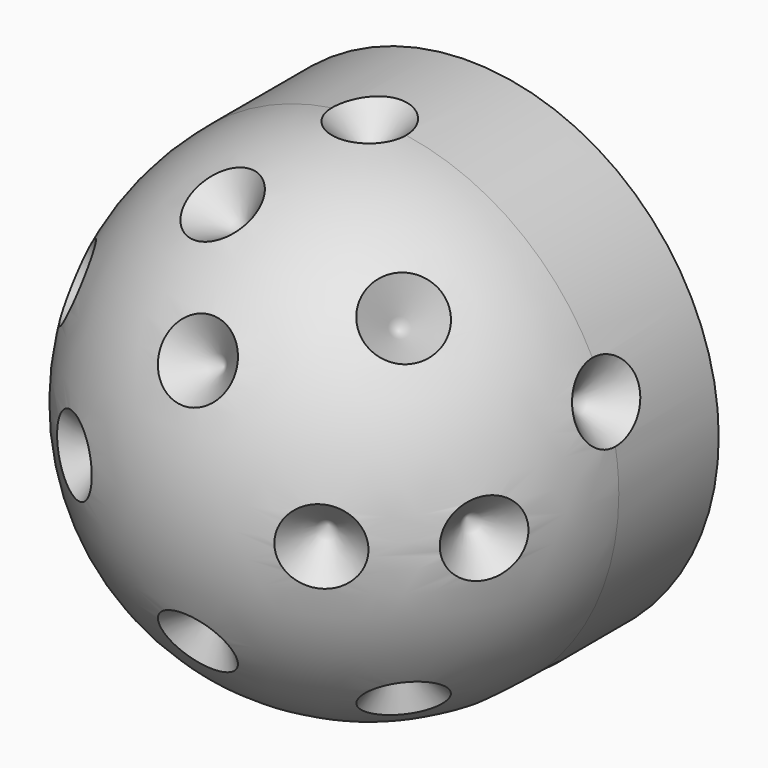
from build123d import *

# Parameters (mm, degrees)
F0_R      = 50
F1_DEPTH  = 25
F3_ANGLE  = 180
F6_COUNT  = 5
F10_COUNT = 7
F14_COUNT = 4


with BuildPart() as f1:
    # F0 (on Front) → F1 (new body)
    with BuildSketch(Plane.XZ):
        Circle(F0_R)
    extrude(amount=-F1_DEPTH)

    # F2 (on face) → F3 (revolve)
    with BuildSketch(Plane.XZ):
        with BuildLine():
            Line((0, -50), (0, 50))
            ThreePointArc((0, 50), (-50, 0), (0, -50))
        make_face()
    revolve(axis=Axis((0, 0, 0), (0, 0, 1)), revolution_arc=F3_ANGLE)


with BuildPart() as f5:
    # F4 (on Right) → F5 (revolve)
    with BuildSketch(Plane.YZ):
        Polygon((0, 42), (0, 52), (-10, 52), align=None)
    revolve(axis=Axis((0, 0, 47), (0, 0, -1)))


with BuildPart() as f6_1:
    # F6: instance of F5
    add(f5.part.rotate(Axis((0, 25, 0), (0, -1, 0)), 1 * 360 / F6_COUNT))


with BuildPart() as f6_2:
    # F6: instance of F5
    add(f5.part.rotate(Axis((0, 25, 0), (0, -1, 0)), 2 * 360 / F6_COUNT))


with BuildPart() as f6_3:
    # F6: instance of F5
    add(f5.part.rotate(Axis((0, 25, 0), (0, -1, 0)), 3 * 360 / F6_COUNT))


with BuildPart() as f6_4:
    # F6: instance of F5
    add(f5.part.rotate(Axis((0, 25, 0), (0, -1, 0)), 4 * 360 / F6_COUNT))


with BuildPart() as f1_1:
    add(f1.part)

    # F7: cut F5, F6_2, F6_3, F6_1, F6_4
    add(f5.part, mode=Mode.SUBTRACT)
    add(f6_2.part, mode=Mode.SUBTRACT)
    add(f6_3.part, mode=Mode.SUBTRACT)
    add(f6_1.part, mode=Mode.SUBTRACT)
    add(f6_4.part, mode=Mode.SUBTRACT)


with BuildPart() as f9:
    # F8 (on Top) → F9 (revolve)
    with BuildSketch(Plane.XY):
        Polygon((40.0333209968, -34.6602540378), (45.0333209968, -26), (36.3730669589, -21), align=None)
    revolve(axis=Axis((40.7031939779, -23.5, 0), (0.8660254038, -0.5, 0)))


with BuildPart() as f10_1:
    # F10: instance of F9
    add(f9.part.rotate(Axis((0, 25, 0), (0, -1, 0)), 1 * 360 / F10_COUNT))


with BuildPart() as f10_2:
    # F10: instance of F9
    add(f9.part.rotate(Axis((0, 25, 0), (0, -1, 0)), 2 * 360 / F10_COUNT))


with BuildPart() as f10_3:
    # F10: instance of F9
    add(f9.part.rotate(Axis((0, 25, 0), (0, -1, 0)), 3 * 360 / F10_COUNT))


with BuildPart() as f10_4:
    # F10: instance of F9
    add(f9.part.rotate(Axis((0, 25, 0), (0, -1, 0)), 4 * 360 / F10_COUNT))


with BuildPart() as f10_5:
    # F10: instance of F9
    add(f9.part.rotate(Axis((0, 25, 0), (0, -1, 0)), 5 * 360 / F10_COUNT))


with BuildPart() as f10_6:
    # F10: instance of F9
    add(f9.part.rotate(Axis((0, 25, 0), (0, -1, 0)), 6 * 360 / F10_COUNT))


with BuildPart() as f1_2:
    add(f1_1.part)

    # F11: cut F9, F10_1, F10_2, F10_3, F10_4, F10_5, F10_6
    add(f9.part, mode=Mode.SUBTRACT)
    add(f10_1.part, mode=Mode.SUBTRACT)
    add(f10_2.part, mode=Mode.SUBTRACT)
    add(f10_3.part, mode=Mode.SUBTRACT)
    add(f10_4.part, mode=Mode.SUBTRACT)
    add(f10_5.part, mode=Mode.SUBTRACT)
    add(f10_6.part, mode=Mode.SUBTRACT)


with BuildPart() as f13:
    # F12 (on Right) → F13 (revolve)
    with BuildSketch(Plane.YZ):
        Polygon((-36.3730669589, 21), (-45.0333209968, 26), (-50.0333209968, 17.3397459622), align=None)
    revolve(axis=Axis((0, -40.7031939779, 23.5), (0, 0.8660254038, -0.5)))


with BuildPart() as f14_1:
    # F14: instance of F13
    add(f13.part.rotate(Axis((0, 25, 0), (0, -1, 0)), 1 * 360 / F14_COUNT))


with BuildPart() as f14_2:
    # F14: instance of F13
    add(f13.part.rotate(Axis((0, 25, 0), (0, -1, 0)), 2 * 360 / F14_COUNT))


with BuildPart() as f14_3:
    # F14: instance of F13
    add(f13.part.rotate(Axis((0, 25, 0), (0, -1, 0)), 3 * 360 / F14_COUNT))


with BuildPart() as f1_3:
    add(f1_2.part)

    # F15: cut F14_1, F14_2, F14_3, F13
    add(f14_1.part, mode=Mode.SUBTRACT)
    add(f14_2.part, mode=Mode.SUBTRACT)
    add(f14_3.part, mode=Mode.SUBTRACT)
    add(f13.part, mode=Mode.SUBTRACT)


solid = f1_3.part
